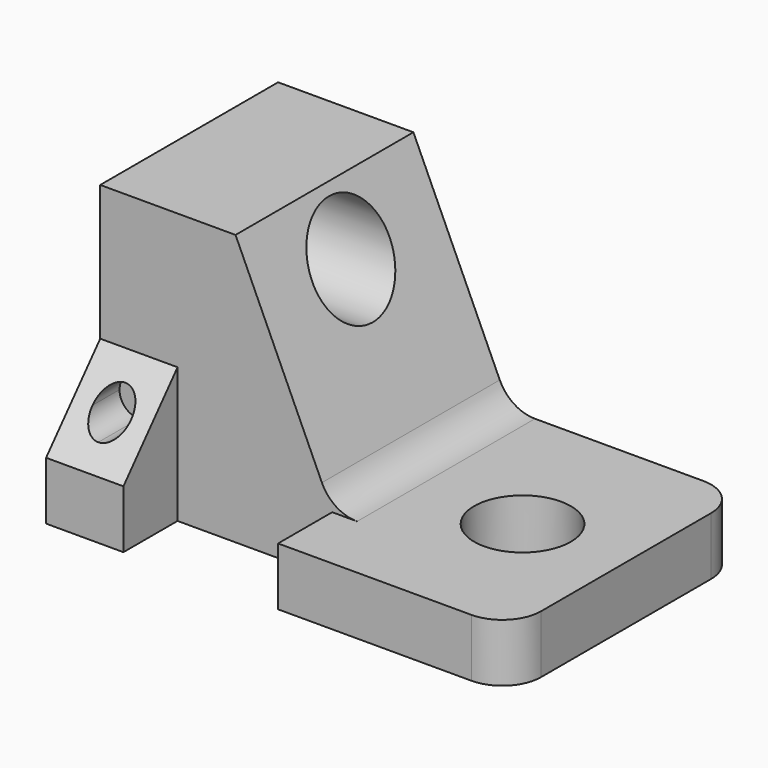
from build123d import *

# Parameters (mm, degrees)
F1_W      = 40
F1_H      = 35
F2_DEPTH  = 70
F3_DEPTH  = 30
F5_DEPTH  = 103
F6_R      = 20
F8_DEPTH  = 28
F10_DEPTH = 140
F12_DEPTH = 1016
F13_R     = 20
F15_DEPTH = 80
F17_DEPTH = 396


with BuildPart() as f2:
    # F1 (on face) → F2 (new body)
    with BuildSketch(Plane.XY):
        with Locations((-47.2459378839, 1.8207169324)):
            Rectangle(F1_W, F1_H)
    extrude(amount=F2_DEPTH)

    # F0 (on Top) → F3 (join)
    with BuildSketch(Plane.XY):
        Polygon((172.7540621161, 134.3207169324), (-67.2459378839, 134.3207169324), (-67.2459378839, -15.6792830676), (-27.2459378839, -15.6792830676), (-27.2459378839, 19.3207169324), (52.7540621161, 19.3207169324), (52.7540621161, -15.6792830676), (172.7540621161, -15.6792830676), align=None)
    extrude(amount=F3_DEPTH)

    # F4 (on face) → F5 (cut)
    with BuildSketch(Plane.YZ.offset(-27.2459378839)):
        Polygon((-15.6792830676, 70), (-15.6792830676, 30), (19.3207169324, 70), align=None)
    extrude(amount=-F5_DEPTH, mode=Mode.SUBTRACT)

    # F6
    f6_edges = [f2.edges().sort_by_distance(p)[0] for p in [
        (172.754062, -15.679283, 15),
        (172.754062, 134.320717, 15),
    ]]
    fillet(f6_edges, radius=F6_R)

    # F7 (on face) → F8 (cut)
    with BuildSketch(Plane(origin=(0, 19.3207169324, 0), x_dir=(-1, 0, 0), z_dir=(0, 1, 0))):
        with BuildLine():
            ThreePointArc((57.2459378839, 50), (54.3170056957, 57.0710678119), (47.2459378839, 60))
            Line((47.2459378839, 60), (47.2459378839, 40))
            ThreePointArc((47.2459378839, 40), (54.3170056957, 42.9289321881), (57.2459378839, 50))
        make_face()
        with BuildLine():
            Line((47.2459378839, 40), (47.2459378839, 60))
            ThreePointArc((47.2459378839, 60), (37.2459378839, 50), (47.2459378839, 40))
        make_face()
    extrude(amount=-F8_DEPTH, mode=Mode.SUBTRACT)

    # F9 (on face) → F10 (join)
    with BuildSketch(Plane(origin=(0, 0, 0), x_dir=(1, 0, 0), z_dir=(0, 0, -1))):
        Polygon((52.7540621161, -134.3207169324), (52.7540621161, -19.3207169324), (-27.2459378839, -19.3207169324), (-67.2459378839, -19.3207169324), (-67.2459378839, -134.3207169324), align=None)
    extrude(amount=-F10_DEPTH)

    # F11 (on face) → F12 (cut)
    with BuildSketch(Plane.XZ.offset(-19.3207169324)):
        Polygon((52.7540621161, 140), (2.7540621161, 140), (52.7540621161, 30), align=None)
    extrude(amount=-F12_DEPTH, mode=Mode.SUBTRACT)

    # F13
    f13_edges = [f2.edges().sort_by_distance(p)[0] for p in [
        (52.754062, 76.820717, 30),
    ]]
    fillet(f13_edges, radius=F13_R)

    # F14 (on face) → F15 (cut)
    with BuildSketch(Plane.XY.offset(30)):
        with BuildLine():
            ThreePointArc((94.1931948194, 59.3207169324), (119.1931948194, 34.3207169324), (144.1931948194, 59.3207169324))
            Line((144.1931948194, 59.3207169324), (94.1931948194, 59.3207169324))
        make_face()
        with BuildLine():
            Line((94.1931948194, 59.3207169324), (144.1931948194, 59.3207169324))
            ThreePointArc((144.1931948194, 59.3207169324), (119.1931948194, 84.3207169324), (94.1931948194, 59.3207169324))
        make_face()
    extrude(amount=-F15_DEPTH, mode=Mode.SUBTRACT)

    # F16 (on face) → F17 (cut)
    with BuildSketch(Plane(origin=(-67.2459378839, 0, 0), x_dir=(0, -1, 0), z_dir=(-1, 0, 0))):
        with BuildLine():
            ThreePointArc((-76.8207169324, 135), (-94.4983864621, 92.3223304703), (-51.8207169324, 110))
            ThreePointArc((-51.8207169324, 110), (-59.1430474028, 127.6776695297), (-76.8207169324, 135))
        make_face()
    extrude(amount=-F17_DEPTH, mode=Mode.SUBTRACT)


solid = f2.part
